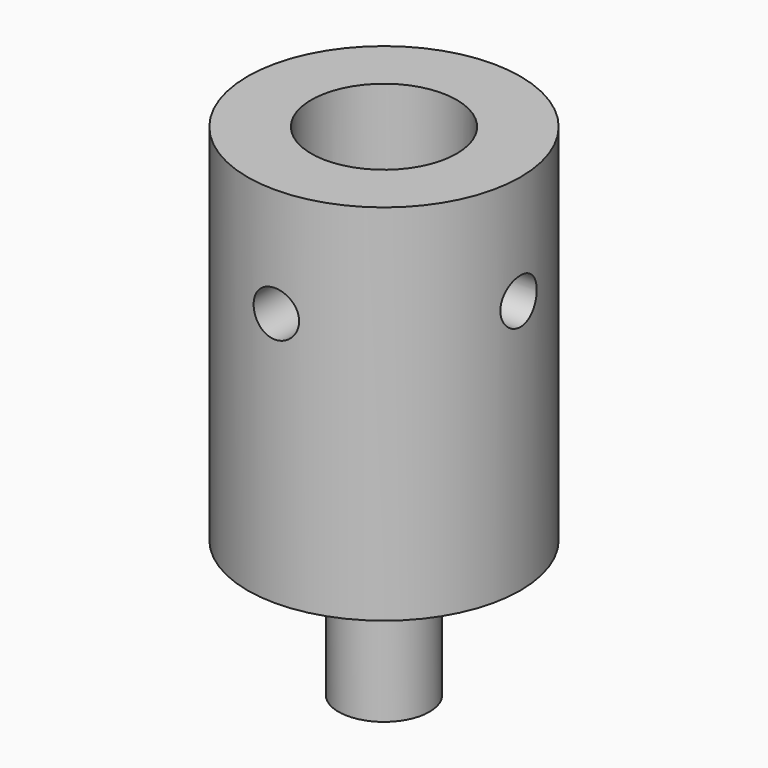
from build123d import *

# Parameters (mm, degrees)
F0_R           = 2.5
F1_DEPTH       = 7.5
F2_R           = 7.5
F3_DEPTH       = 15
F4_DEPTH       = 20
F5_R           = 4
F6_DEPTH       = 15
F7_R           = 1.25
F8_DEPTH       = 7.501
F8_DEPTH_BACK  = 7.501
F9_R           = 1.25
F10_DEPTH      = 7.5010001
F10_DEPTH_BACK = 7.5010001


with BuildPart() as f1:
    # F0 (on Top) → F1 (new body)
    with BuildSketch(Plane.XY):
        Circle(F0_R)
    extrude(amount=F1_DEPTH)

    # F2 (on face) → F3 (join)
    with BuildSketch(Plane.XY.offset(7.5)):
        Circle(F2_R)
    extrude(amount=F3_DEPTH)

    # F2 (on face) → F4 (join)
    with BuildSketch(Plane.XY.offset(7.5)):
        Circle(F2_R)
    extrude(amount=F4_DEPTH)

    # F5 (on face) → F6 (cut)
    with BuildSketch(Plane.XY.offset(27.5)):
        Circle(F5_R)
    extrude(amount=-F6_DEPTH, mode=Mode.SUBTRACT)

    # F7 (on Front) → F8 (cut, two sides)
    with BuildSketch(Plane.XZ) as f8_sk:
        with Locations((0, 21.5)):
            Circle(F7_R)
    extrude(amount=-F8_DEPTH, mode=Mode.SUBTRACT)
    extrude(f8_sk.sketch, amount=F8_DEPTH_BACK, mode=Mode.SUBTRACT)

    # F9 (on Right) → F10 (cut, two sides)
    with BuildSketch(Plane.YZ) as f10_sk:
        with Locations((0, 21.5)):
            Circle(F9_R)
    extrude(amount=-F10_DEPTH, mode=Mode.SUBTRACT)
    extrude(f10_sk.sketch, amount=F10_DEPTH_BACK, mode=Mode.SUBTRACT)


solid = f1.part
